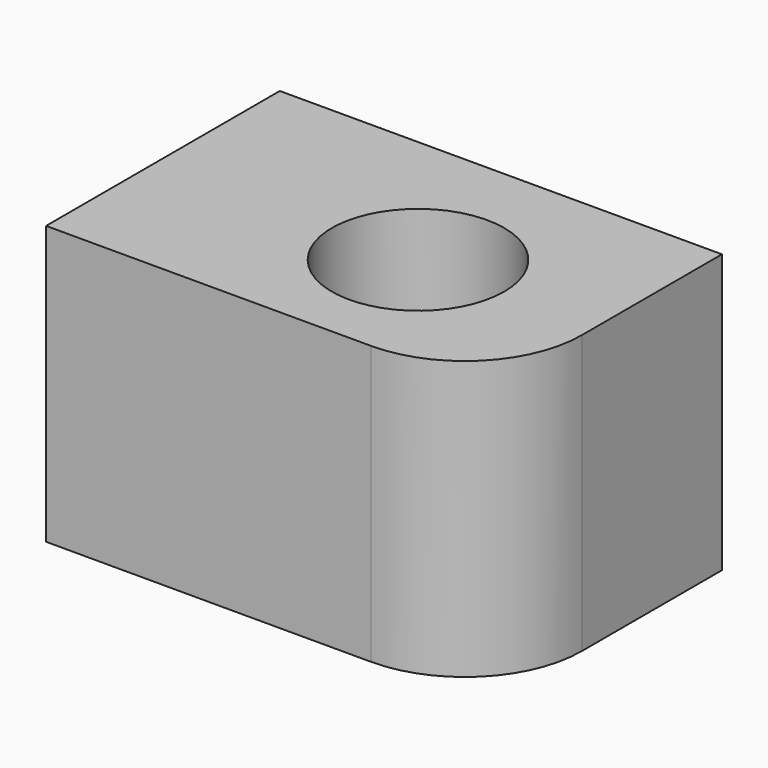
from build123d import *

# Parameters (mm, degrees)
F0_W     = 136.290834
F0_H     = 85.74231
F1_DEPTH = 90.054186
F2_R     = 26.57018
F3_DEPTH = 175.134316
F4_R     = 36.09963


with BuildPart() as f1:
    # F0 (on Front) → F1 (new body)
    with BuildSketch(Plane.XZ):
        with Locations((14.668025, 0.729218)):
            Rectangle(F0_W, F0_H)
    extrude(amount=F1_DEPTH)

    # F2 (on face) → F3 (cut)
    with BuildSketch(Plane.XY.offset(43.600373)):
        with Locations((27.499106, -47.949214)):
            Circle(F2_R)
    extrude(amount=-F3_DEPTH, mode=Mode.SUBTRACT)

    # F4
    f4_edges = [f1.edges().sort_by_distance(p)[0] for p in [
        (82.813442, -90.054186, 0.729218),
    ]]
    fillet(f4_edges, radius=F4_R)


solid = f1.part
